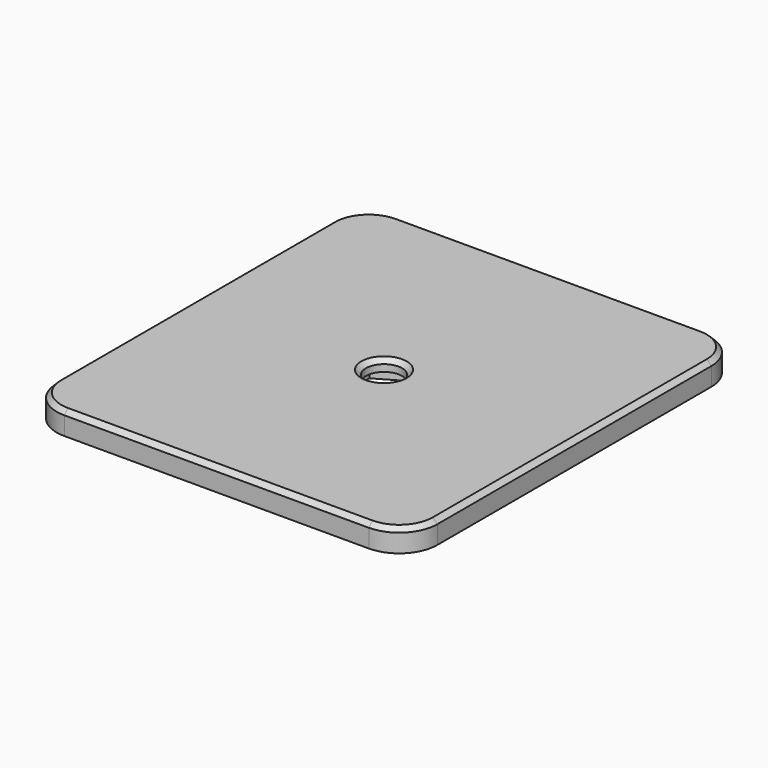
from build123d import *

# Parameters (mm, degrees)
F1_DEPTH = 6
F2_R     = 4.7625
F3_DEPTH = 25
F4_R     = 4.7625
F5_DEPTH = 3
F6_SIZE  = 1.2


with BuildPart() as f1:
    # F0 (on Top) → F1 (new body)
    with BuildSketch(Plane.XY):
        with BuildLine():
            ThreePointArc((-30.2148338807, -47.1672770381), (-27.2859016925, -54.23834485), (-20.2148338807, -57.1672770381))
            Line((-20.2148338807, -57.1672770381), (59.7851661193, -57.1672770381))
            ThreePointArc((59.7851661193, -57.1672770381), (66.8562339312, -54.23834485), (69.7851661193, -47.1672770381))
            Line((69.7851661193, -47.1672770381), (69.7851661193, 42.8327229619))
            ThreePointArc((69.7851661193, 42.8327229619), (66.8562339312, 49.9037907738), (59.7851661193, 52.8327229619))
            Line((59.7851661193, 52.8327229619), (-20.2148338807, 52.8327229619))
            ThreePointArc((-20.2148338807, 52.8327229619), (-27.2859016925, 49.9037907738), (-30.2148338807, 42.8327229619))
            Line((-30.2148338807, 42.8327229619), (-30.2148338807, -47.1672770381))
        make_face()
    extrude(amount=F1_DEPTH)

    # F2 (on face) → F3 (cut)
    with BuildSketch(Plane.XY.offset(6)):
        with Locations((19.7851661193, -2.1672770381)):
            Circle(F2_R)
    extrude(amount=-F3_DEPTH, mode=Mode.SUBTRACT)

    # F4 (on face) → F5 (cut)
    with BuildSketch(Plane(origin=(0, 0, 0), x_dir=(1, 0, 0), z_dir=(0, 0, -1))):
        Polygon((26.9352661193, -1.9608351216), (26.9352661193, 6.2953891978), (19.7851661193, 10.4235013576), (12.6350661193, 6.2953891978), (12.6350661193, -1.9608351216), (19.7851661193, -6.0889472814), align=None)
        with Locations((19.7851661193, 2.1672770381)):
            Circle(F4_R, mode=Mode.SUBTRACT)
    extrude(amount=-F5_DEPTH, mode=Mode.SUBTRACT)

    # F6
    f6_edges = [f1.edges().sort_by_distance(p)[0] for p in [
        (-27.285902, 49.903791, 6),
        (19.785166, 52.832723, 6),
        (-30.214834, -2.167277, 6),
        (66.856234, 49.903791, 6),
        (-27.285902, -54.238345, 6),
        (69.785166, -2.167277, 6),
        (19.785166, -57.167277, 6),
        (66.856234, -54.238345, 6),
        (15.022666, -2.167277, 6),
    ]]
    chamfer(f6_edges, length=F6_SIZE)


solid = f1.part
